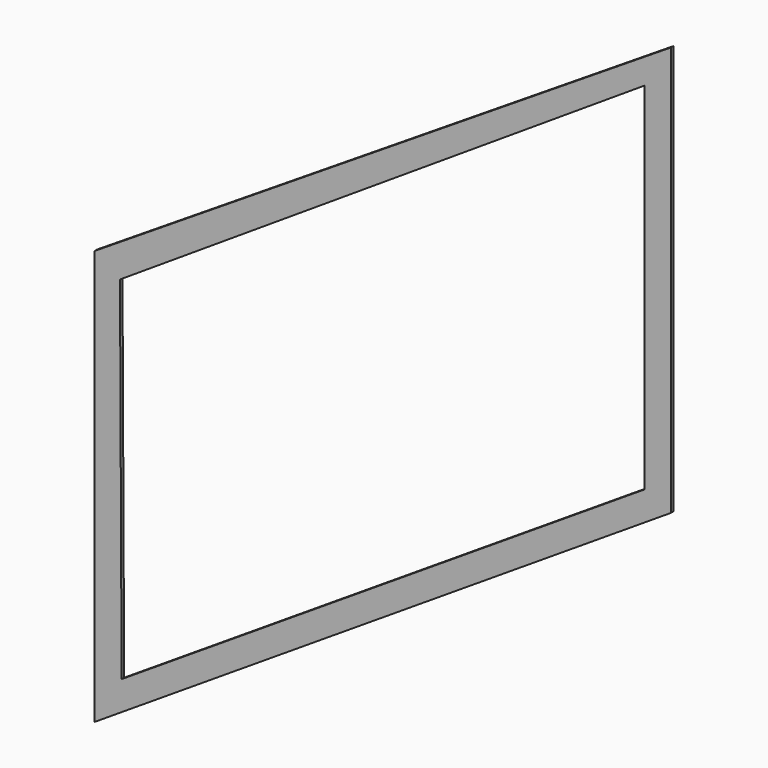
from build123d import *

# Parameters (mm, degrees)
F1_DEPTH = 5


with BuildPart() as f1:
    # F0 (on Front) → F1 (new body)
    with BuildSketch(Plane.XZ):
        Polygon((952.385604, 1377.7951), (44.032343, 800.097644), (44.032343, 146.387324), (952.385604, 731.812539), align=None)
        Polygon((86.542191, 219.605512), (83.939075, 773.493111), (910.578549, 1311.283827), (910.578549, 750.689268), align=None, mode=Mode.SUBTRACT)
    extrude(amount=F1_DEPTH)


solid = f1.part
